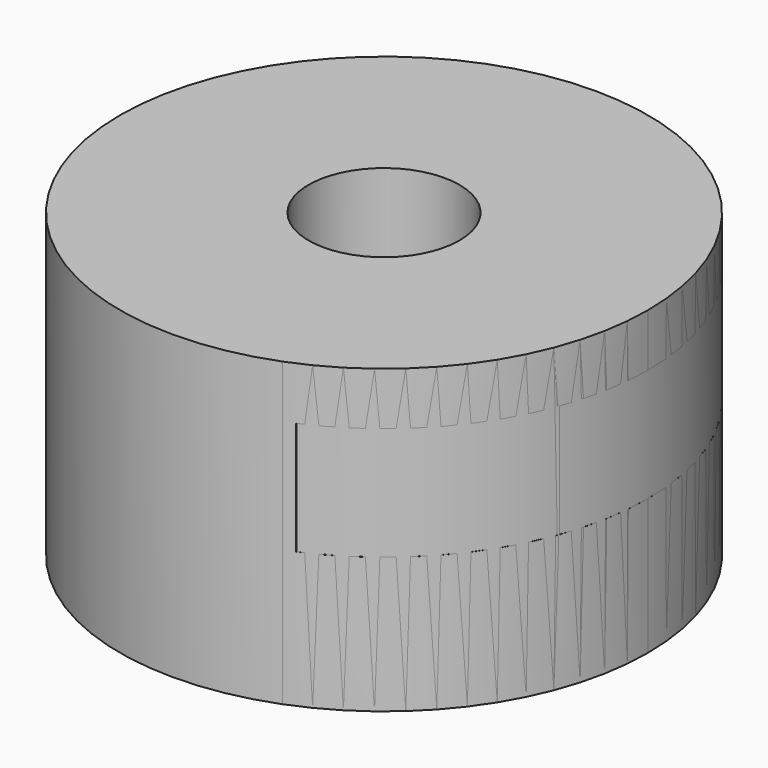
from build123d import *

# Parameters (mm, degrees)
BOX_W             = 30
BOX_H             = 30
BOX_DEPTH         = 7.5
CYLINDER001_R     = 5
CYLINDER001_DEPTH = 40
CYLINDER_R        = 17.5
CYLINDER_DEPTH    = 20
BOX001_W          = 30
BOX001_H          = 70
BOX001_DEPTH      = 7.5
CYLINDER003_R     = 5
CYLINDER003_DEPTH = 40
CYLINDER002_R     = 17.5
CYLINDER002_DEPTH = 20
BOX002_W          = 30
BOX002_H          = 30
BOX002_DEPTH      = 7.5
CYLINDER005_R     = 5
CYLINDER005_DEPTH = 40
CYLINDER004_R     = 17.5
CYLINDER004_DEPTH = 20


with BuildPart() as cube:
    # Box → Box (new body)
    with BuildSketch(Plane(origin=(7, -6, 9), x_dir=(1, 0, 0), z_dir=(0, 0, 1))):
        with Locations((15, 15)):
            Rectangle(BOX_W, BOX_H)
    extrude(amount=BOX_DEPTH)


with BuildPart() as cylinder001:
    # Cylinder001 → Cylinder001 (new body)
    with BuildSketch(Plane.XY.offset(-10)):
        Circle(CYLINDER001_R)
    extrude(amount=CYLINDER001_DEPTH)


with BuildPart() as mount_bottom_r:
    # Cylinder → Cylinder (new body)
    with BuildSketch(Plane.XY):
        Circle(CYLINDER_R)
    extrude(amount=CYLINDER_DEPTH)

    # Cut: cut Cylinder001
    add(cylinder001.part, mode=Mode.SUBTRACT)

    # Cut001: cut Cube
    add(cube.part, mode=Mode.SUBTRACT)


with BuildPart() as cube001:
    # Box001 → Box001 (new body)
    with BuildSketch(Plane(origin=(7, -20, 9), x_dir=(1, 0, 0), z_dir=(0, 0, 1))):
        with Locations((15, 35)):
            Rectangle(BOX001_W, BOX001_H)
    extrude(amount=BOX001_DEPTH)


with BuildPart() as cylinder003:
    # Cylinder003 → Cylinder003 (new body)
    with BuildSketch(Plane.XY.offset(-10)):
        Circle(CYLINDER003_R)
    extrude(amount=CYLINDER003_DEPTH)


with BuildPart() as mount_top_l_r:
    # Cylinder002 → Cylinder002 (new body)
    with BuildSketch(Plane.XY):
        Circle(CYLINDER002_R)
    extrude(amount=CYLINDER002_DEPTH)

    # Cut002: cut Cylinder003
    add(cylinder003.part, mode=Mode.SUBTRACT)

    # Cut003: cut Cube001
    add(cube001.part, mode=Mode.SUBTRACT)


with BuildPart() as cube002:
    # Box002 → Box002 (new body)
    with BuildSketch(Plane(origin=(-37, -6, 9), x_dir=(1, 0, 0), z_dir=(0, 0, 1))):
        with Locations((15, 15)):
            Rectangle(BOX002_W, BOX002_H)
    extrude(amount=BOX002_DEPTH)


with BuildPart() as cylinder005:
    # Cylinder005 → Cylinder005 (new body)
    with BuildSketch(Plane.XY.offset(-10)):
        Circle(CYLINDER005_R)
    extrude(amount=CYLINDER005_DEPTH)


with BuildPart() as mount_bottom_l:
    # Cylinder004 → Cylinder004 (new body)
    with BuildSketch(Plane.XY):
        Circle(CYLINDER004_R)
    extrude(amount=CYLINDER004_DEPTH)

    # Cut004: cut Cylinder005
    add(cylinder005.part, mode=Mode.SUBTRACT)

    # Cut005: cut Cube002
    add(cube002.part, mode=Mode.SUBTRACT)


solid = Compound([mount_bottom_r.part, mount_top_l_r.part, mount_bottom_l.part])
